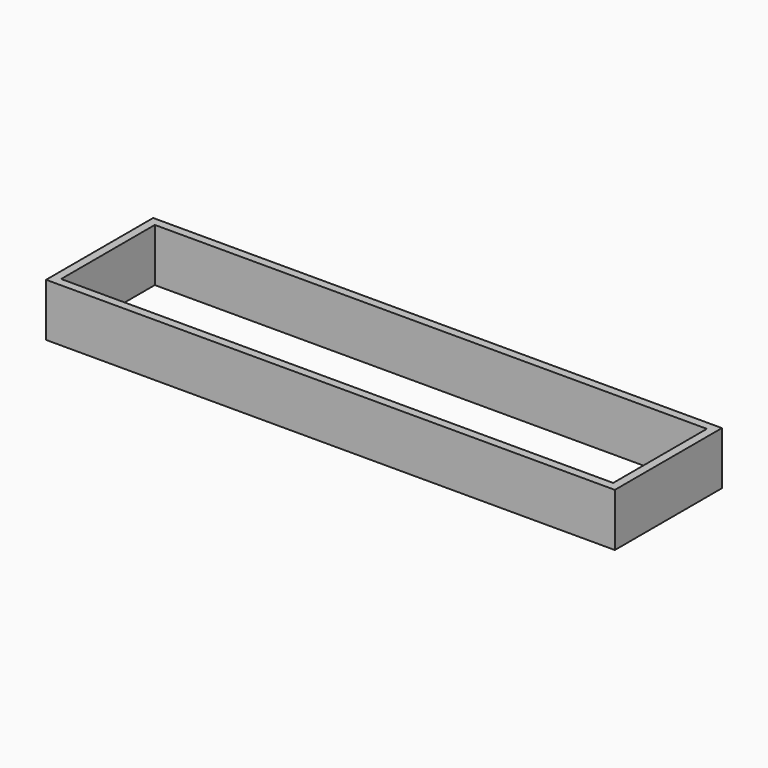
from build123d import *

# Parameters (mm, degrees)
F0_W     = 38.1
F0_H     = 533.4
F1_DEPTH = 241.3
F2_DEPTH = 241.3


with BuildPart() as f1:
    # F0 (on Top) → F1 (new body)
    with BuildSketch(Plane.XY):
        Polygon((2590.8, 0), (0, 0), (0, -38.1), (38.1, -38.1), (2552.7, -38.1), (2590.8, -38.1), align=None)
        with Locations((19.05, -304.8)):
            Rectangle(F0_W, F0_H)
        with Locations((2571.75, -304.8)):
            Rectangle(F0_W, F0_H)
        Polygon((38.1, -571.5), (0, -571.5), (0, -609.6), (2590.8, -609.6), (2590.8, -571.5), (2552.7, -571.5), align=None)
    extrude(amount=F1_DEPTH)


with BuildPart() as f2:
    # F0 (on Top) → F2 (new body)
    with BuildSketch(Plane.XY):
        Polygon((2590.8, 0), (0, 0), (0, -38.1), (38.1, -38.1), (2552.7, -38.1), (2590.8, -38.1), align=None)
        with Locations((19.05, -304.8)):
            Rectangle(F0_W, F0_H)
        with Locations((2571.75, -304.8)):
            Rectangle(F0_W, F0_H)
        Polygon((38.1, -571.5), (0, -571.5), (0, -609.6), (2590.8, -609.6), (2590.8, -571.5), (2552.7, -571.5), align=None)
    extrude(amount=F2_DEPTH)


solid = Compound([f1.part, f2.part])
